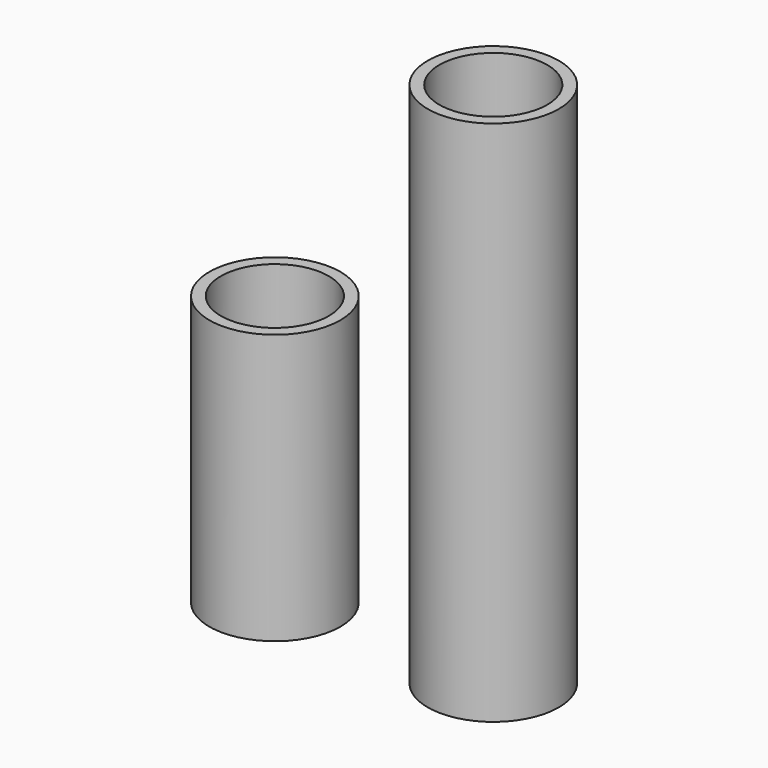
from build123d import *

# Parameters (mm, degrees)
CYLINDER_R        = 4.2
CYLINDER_DEPTH    = 39
CYLINDER001_R     = 5.1
CYLINDER001_DEPTH = 41
CYLINDER002_R     = 4.2
CYLINDER002_DEPTH = 19
CYLINDER003_R     = 5.1
CYLINDER003_DEPTH = 21


with BuildPart() as cylinder:
    # Cylinder → Cylinder (new body)
    with BuildSketch(Plane.XY.offset(2)):
        Circle(CYLINDER_R)
    extrude(amount=CYLINDER_DEPTH)


with BuildPart() as f_39mm:
    # Cylinder001 → Cylinder001 (new body)
    with BuildSketch(Plane.XY):
        Circle(CYLINDER001_R)
    extrude(amount=CYLINDER001_DEPTH)

    # Cut: cut Cylinder
    add(cylinder.part, mode=Mode.SUBTRACT)


with BuildPart() as f_39mm_1:
    # Cut placement: moved
    add(f_39mm.part.moved(Location((17, 0, 0))))


with BuildPart() as cylinder002:
    # Cylinder002 → Cylinder002 (new body)
    with BuildSketch(Plane.XY.offset(2)):
        Circle(CYLINDER002_R)
    extrude(amount=CYLINDER002_DEPTH)


with BuildPart() as f_19mm:
    # Cylinder003 → Cylinder003 (new body)
    with BuildSketch(Plane.XY):
        Circle(CYLINDER003_R)
    extrude(amount=CYLINDER003_DEPTH)

    # Cut001: cut Cylinder002
    add(cylinder002.part, mode=Mode.SUBTRACT)


solid = Compound([f_39mm_1.part, f_19mm.part])
